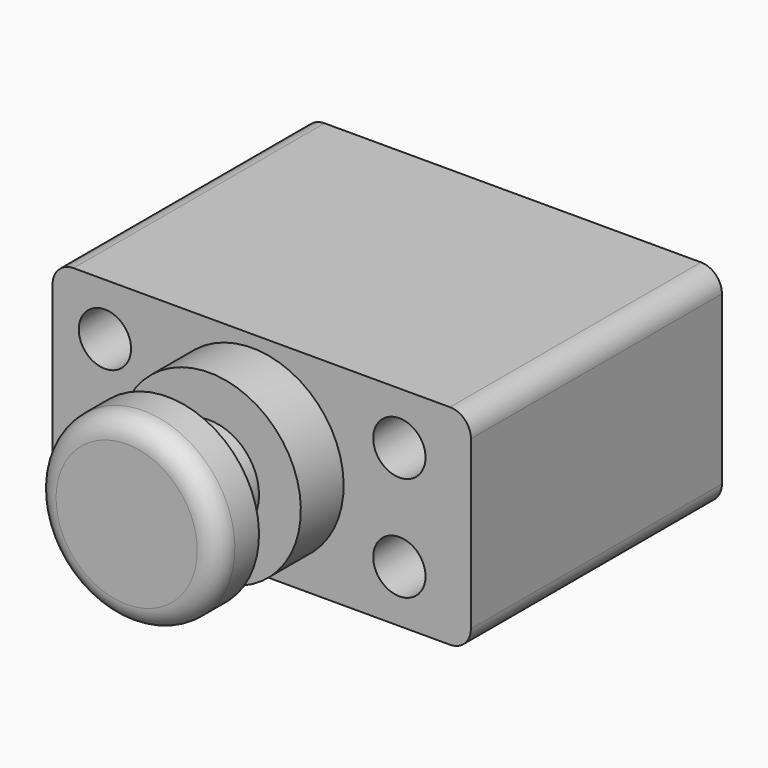
from build123d import *

# Parameters (mm, degrees)
F0_W     = 101.6
F0_H     = 50.8
F1_DEPTH = 76.2
F2_R     = 6.35
F3_DEPTH = 25.4
F4_DEPTH = 76.201
F5_W     = 38.1
F5_H     = 22.225
F7_W     = 10.16
F7_H     = 12.7
F9_R     = 5.08
F10_R    = 5.08
F11_R    = 5.08


with BuildPart() as f1:
    # F0 (on Front) → F1 (new body)
    with BuildSketch(Plane.XZ):
        with Locations((2.3388, -0.234386)):
            Rectangle(F0_W, F0_H)
    extrude(amount=F1_DEPTH)

    # F2 (on face) → F3 (cut)
    with BuildSketch(Plane.XZ.offset(76.2)):
        with Locations((35.7612, 12.465614)):
            Circle(F2_R)
    extrude(amount=-F3_DEPTH, mode=Mode.SUBTRACT)

    # F2 (on face) → F4 (cut, through all)
    with BuildSketch(Plane.XZ.offset(76.2)):
        with Locations((-35.7612, 12.465614)):
            Circle(F2_R)
        with Locations((-35.7612, -12.934386)):
            Circle(F2_R)
        with Locations((35.7612, 12.465614)):
            Circle(F2_R)
        with Locations((35.7612, -12.934386)):
            Circle(F2_R)
    extrude(amount=-F4_DEPTH, mode=Mode.SUBTRACT)

    # F10
    f10_edges = [f1.edges().sort_by_distance(p)[0] for p in [
        (-48.4612, -38.1, -25.634386),
        (53.1388, -38.1, -25.634386),
        (-48.4612, -38.1, 25.165614),
    ]]
    fillet(f10_edges, radius=F10_R)

    # F11
    f11_edges = [f1.edges().sort_by_distance(p)[0] for p in [
        (53.1388, -38.1, 25.165614),
    ]]
    fillet(f11_edges, radius=F11_R)


with BuildPart() as f6:
    # F5 (on Right) → F6 (revolve)
    with BuildSketch(Plane.YZ):
        with Locations((-95.25, -11.1125)):
            Rectangle(F5_W, F5_H)
    revolve(axis=Axis((0, -95.25, 0), (0, -1, 0)))

    # F7 (on Top) → F8 (revolve, cut)
    with BuildSketch(Plane.XY):
        with Locations((17.145, -95.547635)):
            Rectangle(F7_W, F7_H)
    revolve(axis=Axis((0, -70.485167, 0), (0, -1, 0)), mode=Mode.SUBTRACT)

    # F9
    f9_edges = [f6.edges().sort_by_distance(p)[0] for p in [
        (0, -114.3, 22.225),
    ]]
    fillet(f9_edges, radius=F9_R)


solid = Compound([f1.part, f6.part])
